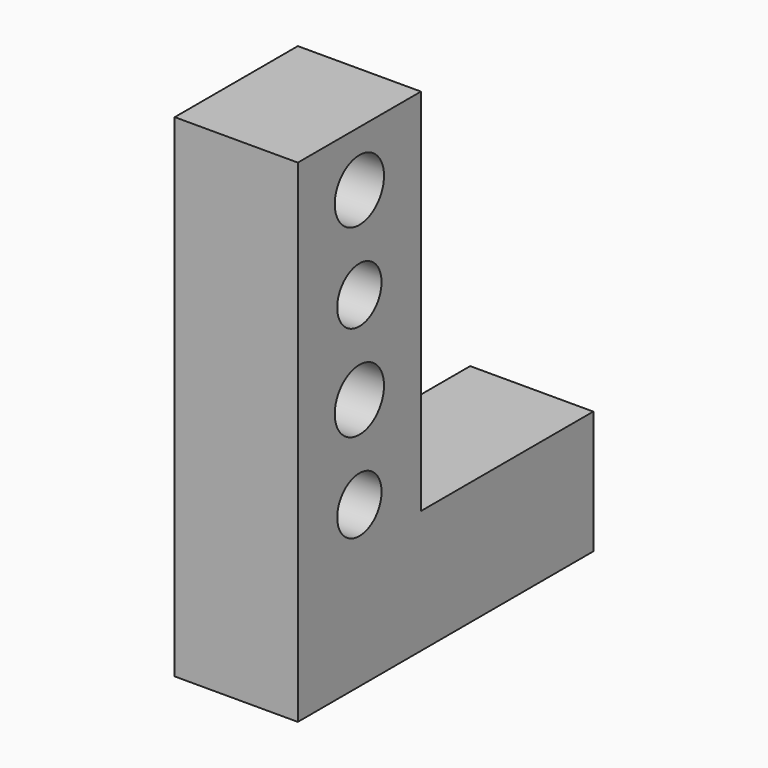
from build123d import *

# Parameters (mm, degrees)
F0_W     = 20
F0_H     = 25
F1_DEPTH = 80
F2_R     = 5
F2_R_2   = 4.5
F3_DEPTH = 25
F4_W     = 20
F4_H     = 20
F5_DEPTH = 35


with BuildPart() as f1:
    # F0 (on Top) → F1 (new body)
    with BuildSketch(Plane.XY):
        with Locations((10, -12.5)):
            Rectangle(F0_W, F0_H)
    extrude(amount=F1_DEPTH)

    # F2 (on face) → F3 (cut)
    with BuildSketch(Plane.YZ.offset(20)):
        with Locations((-12.5, 71)):
            Circle(F2_R)
        with Locations((-12.5, 56)):
            Circle(F2_R_2)
        with Locations((-12.5, 41)):
            Circle(F2_R)
        with Locations((-12.5, 26)):
            Circle(F2_R_2)
    extrude(amount=-F3_DEPTH, mode=Mode.SUBTRACT)

    # F4 (on face) → F5 (join)
    with BuildSketch(Plane(origin=(0, 0, 0), x_dir=(-1, 0, 0), z_dir=(0, 1, 0))):
        with Locations((-10, 10)):
            Rectangle(F4_W, F4_H)
    extrude(amount=F5_DEPTH)


solid = f1.part
